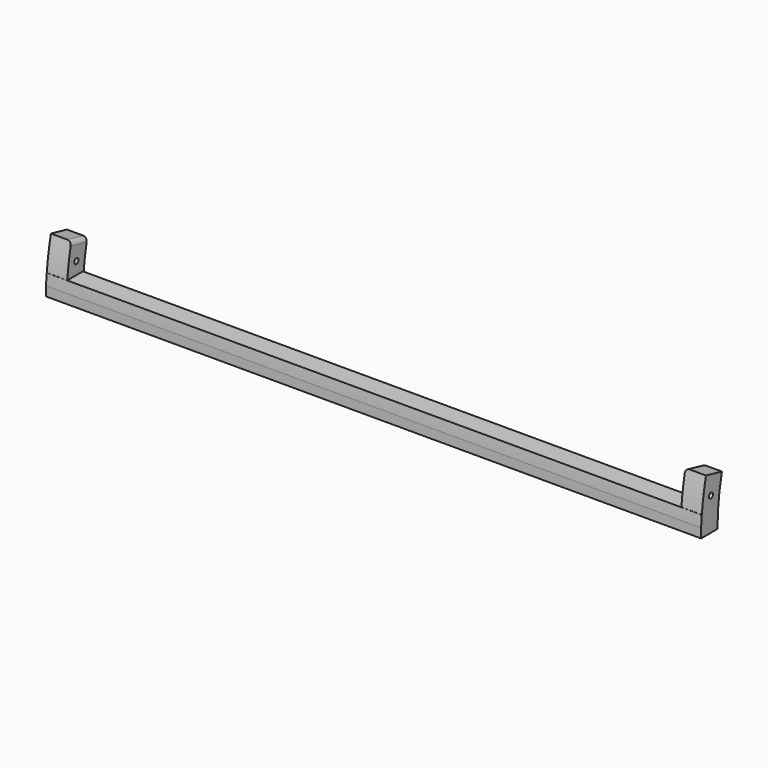
from build123d import *

# Parameters (mm, degrees)
CYLINDER066_R     = 1.3
CYLINDER066_DEPTH = 331
CYLINDER070_W     = 105
CYLINDER070_H     = 10
CYLINDER070_ANGLE = 13
CYLINDER065_W     = 115
CYLINDER065_H     = 10
CYLINDER065_ANGLE = 13
FILLET011_R       = 2
CYLINDER068_W     = 105
CYLINDER068_H     = 352
CYLINDER068_ANGLE = 13
CYLINDER067_W     = 115
CYLINDER067_H     = 340
CYLINDER067_ANGLE = 13
BOX103_W          = 320
BOX103_H          = 10
BOX103_DEPTH      = 10
CYLINDER069_W     = 105
CYLINDER069_H     = 10
CYLINDER069_ANGLE = 13
CYLINDER064_W     = 115
CYLINDER064_H     = 10
CYLINDER064_ANGLE = 13
FILLET010_R       = 2


with BuildPart() as cilindro066:
    # Cylinder066 → Cylinder066 (new body)
    with BuildSketch(Plane(origin=(5, 6, 178), x_dir=(0, 0, -1), z_dir=(1, 0, 0))):
        Circle(CYLINDER066_R)
    extrude(amount=CYLINDER066_DEPTH)


with BuildPart() as cilindro070:
    # Cylinder070 → Cylinder070 (revolve)
    with BuildSketch(Plane(origin=(20, 115, 162), x_dir=(0, -1, 0), z_dir=(0, 0, -1))):
        with Locations((52.5, 5)):
            Rectangle(CYLINDER070_W, CYLINDER070_H)
    revolve(axis=Axis((20, 115, 162), (-1, 0, 0)), revolution_arc=CYLINDER070_ANGLE)


with BuildPart() as fillet011:
    # Cylinder065 → Cylinder065 (revolve)
    with BuildSketch(Plane(origin=(20, 115, 162), x_dir=(0, -1, 0), z_dir=(0, 0, -1))):
        with Locations((57.5, 5)):
            Rectangle(CYLINDER065_W, CYLINDER065_H)
    revolve(axis=Axis((20, 115, 162), (-1, 0, 0)), revolution_arc=CYLINDER065_ANGLE)

    # Cut075: cut Cilindro070
    add(cilindro070.part, mode=Mode.SUBTRACT)

    # Fillet011
    fillet011_edges = [fillet011.edges().sort_by_distance(p)[0] for p in [
        (20, 7.819293, 186.744616),
    ]]
    fillet(fillet011_edges, radius=FILLET011_R)


with BuildPart() as cilindro068:
    # Cylinder068 → Cylinder068 (revolve)
    with BuildSketch(Plane(origin=(340, 115, 162), x_dir=(0, -1, 0), z_dir=(0, 0, -1))):
        with Locations((52.5, 176)):
            Rectangle(CYLINDER068_W, CYLINDER068_H)
    revolve(axis=Axis((340, 115, 162), (-1, 0, 0)), revolution_arc=CYLINDER068_ANGLE)


with BuildPart() as cut078:
    # Cylinder067 → Cylinder067 (revolve)
    with BuildSketch(Plane(origin=(340, 115, 162), x_dir=(0, -1, 0), z_dir=(0, 0, -1))):
        with Locations((57.5, 170)):
            Rectangle(CYLINDER067_W, CYLINDER067_H)
    revolve(axis=Axis((340, 115, 162), (-1, 0, 0)), revolution_arc=CYLINDER067_ANGLE)

    # Cut078: cut Cilindro068
    add(cilindro068.part, mode=Mode.SUBTRACT)


with BuildPart() as cut078_1:
    # Cut078 placement: moved
    add(cut078.part.moved(Location((0, -10.1, 0))))


with BuildPart() as cut079:
    # Box103 → Box103 (new body)
    with BuildSketch(Plane(origin=(10, 0, 162), x_dir=(1, 0, 0), z_dir=(0, 0, 1))):
        with Locations((160, 5)):
            Rectangle(BOX103_W, BOX103_H)
    extrude(amount=BOX103_DEPTH)

    # Cut079: cut Cut078
    add(cut078_1.part, mode=Mode.SUBTRACT)


with BuildPart() as cilindro069:
    # Cylinder069 → Cylinder069 (revolve)
    with BuildSketch(Plane(origin=(20, 115, 162), x_dir=(0, -1, 0), z_dir=(0, 0, -1))):
        with Locations((52.5, 5)):
            Rectangle(CYLINDER069_W, CYLINDER069_H)
    revolve(axis=Axis((20, 115, 162), (-1, 0, 0)), revolution_arc=CYLINDER069_ANGLE)


with BuildPart() as cut076:
    # Cylinder064 → Cylinder064 (revolve)
    with BuildSketch(Plane(origin=(20, 115, 162), x_dir=(0, -1, 0), z_dir=(0, 0, -1))):
        with Locations((57.5, 5)):
            Rectangle(CYLINDER064_W, CYLINDER064_H)
    revolve(axis=Axis((20, 115, 162), (-1, 0, 0)), revolution_arc=CYLINDER064_ANGLE)

    # Cut077: cut Cilindro069
    add(cilindro069.part, mode=Mode.SUBTRACT)


with BuildPart() as cut076_1:
    # Cut077 placement: moved
    add(cut076.part.moved(Location((310, 0, 0))))

    # Fillet010
    fillet010_edges = [cut076_1.edges().sort_by_distance(p)[0] for p in [
        (320, 7.819293, 186.744616),
    ]]
    fillet(fillet010_edges, radius=FILLET010_R)

    # Fusion017: union Fillet011, Cut079
    add(fillet011.part)
    add(cut079.part)

    # Cut076: cut Cilindro066
    add(cilindro066.part, mode=Mode.SUBTRACT)


solid = cut076_1.part
